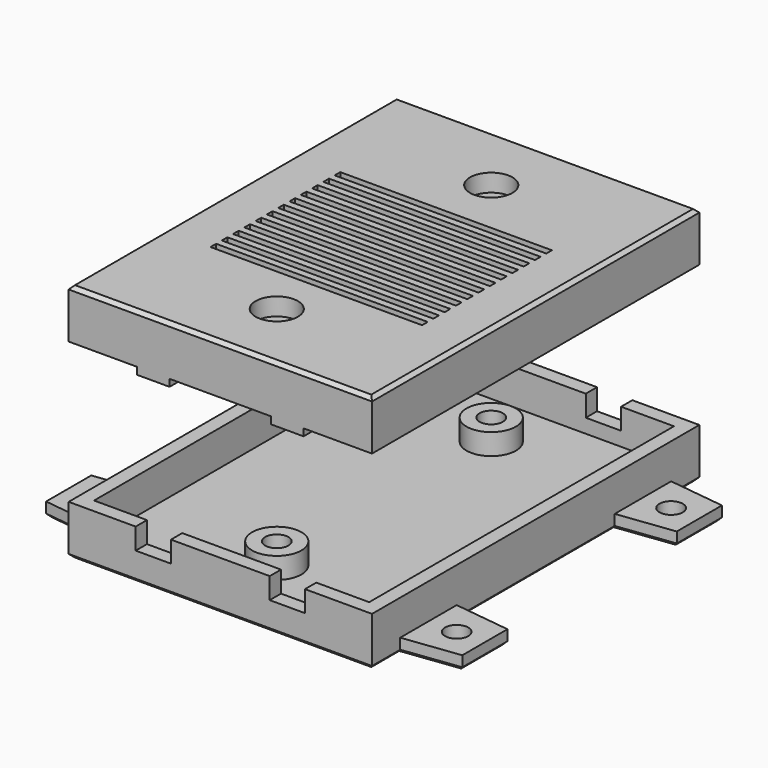
from build123d import *

# Parameters (mm, degrees)
F0_W       = 43
F0_H       = 58
F0_W_2     = 39
F0_H_2     = 54
F0_W_3     = 35
F0_H_3     = 50
F0_R       = 3.5
F1_DEPTH   = 2
F2_DEPTH   = 5
F3_DEPTH   = 3
F5_D       = 3.3
F6_W       = 5
F6_H       = 2
F7_DEPTH   = 3
F9_R       = 3.5
F9_W       = 14
F9_H       = 2
F9_W_2     = 5
F10_DEPTH  = 2
F11_DEPTH  = 5
F12_W      = 4.6
F12_H      = 2
F13_DEPTH  = 1
F14_D      = 3.3
F15_R      = 3
F15_R_2    = 1.65
F16_DEPTH  = 2.5
F17_R      = 1.65
F18_DEPTH  = 2.5
F19_W      = 30
F19_H      = 1
F20_DEPTH  = 2
F21_R      = 1.65
F22_DEPTH  = 2
F23_SIZE   = 0.5
F23_2_SIZE = 0.5
F24_SIZE   = 0.5


with BuildPart() as f1:
    # F0 (on Top) → F1 (new body)
    with BuildSketch(Plane.XY):
        with Locations((0, -19)):
            Rectangle(F0_W, F0_H)
        with Locations((0, -19)):
            Rectangle(F0_W_2, F0_H_2, mode=Mode.SUBTRACT)
        with Locations((0, -19)):
            Rectangle(F0_W_2, F0_H_2)
        with Locations((0, -19)):
            Rectangle(F0_W_3, F0_H_3, mode=Mode.SUBTRACT)
        with Locations((0, -19)):
            Rectangle(F0_W_3, F0_H_3)
        with Locations((0, -38)):
            Circle(F0_R, mode=Mode.SUBTRACT)
        Circle(F0_R, mode=Mode.SUBTRACT)
        Circle(F0_R)
        with Locations((0, -38)):
            Circle(F0_R)
    extrude(amount=-F1_DEPTH)

    # F0 (on Top) → F2 (join)
    with BuildSketch(Plane.XY):
        with Locations((0, -19)):
            Rectangle(F0_W, F0_H)
        with Locations((0, -19)):
            Rectangle(F0_W_2, F0_H_2, mode=Mode.SUBTRACT)
    extrude(amount=F2_DEPTH)

    # F0 (on Top) → F3 (join)
    with BuildSketch(Plane.XY):
        Circle(F0_R)
        with Locations((0, -38)):
            Circle(F0_R)
    extrude(amount=F3_DEPTH)

    # F5 (through all)
    with Locations(Plane.XY.offset(3)):
        with Locations((0, -38), (0, 0)):
            Hole(F5_D / 2)

    # F6 (on face) → F7 (cut)
    with BuildSketch(Plane.XY.offset(5)):
        with Locations((9.5, -47)):
            Rectangle(F6_W, F6_H)
        with Locations((-9.5, -47)):
            Rectangle(F6_W, F6_H)
        with Locations((-9.5, 9)):
            Rectangle(F6_W, F6_H)
        with Locations((9.5, 9)):
            Rectangle(F6_W, F6_H)
    extrude(amount=-F7_DEPTH, mode=Mode.SUBTRACT)

    # F17 (on face) → F18 (cut)
    with BuildSketch(Plane(origin=(0, 0, -2), x_dir=(1, 0, 0), z_dir=(0, 0, -1))):
        Polygon((-1.5, 35.4019237886), (1.5, 35.4019237886), (3, 38), (1.5, 40.5980762114), (-1.5, 40.5980762114), (-3, 38), align=None)
        with Locations((0, 38)):
            Circle(F17_R, mode=Mode.SUBTRACT)
        Polygon((-1.5, -2.5980762114), (1.5, -2.5980762114), (3, 0), (1.5, 2.5980762114), (-1.5, 2.5980762114), (-3, 0), align=None)
        Circle(F17_R, mode=Mode.SUBTRACT)
    extrude(amount=-F18_DEPTH, mode=Mode.SUBTRACT)

    # F21 (on face) → F22 (join)
    with BuildSketch(Plane(origin=(0, 0, -2), x_dir=(1, 0, 0), z_dir=(0, 0, -1))):
        Polygon((-29.5, 34), (-21.5, 33), (-21.5, 43), (-29.5, 42), align=None)
        with Locations((-25.5, 38)):
            Circle(F21_R, mode=Mode.SUBTRACT)
        Polygon((-21.5, -5), (-21.5, 5), (-29.5, 4), (-29.5, -4), align=None)
        with Locations((-25.5, 0)):
            Circle(F21_R, mode=Mode.SUBTRACT)
        Polygon((29.5, 42), (21.5, 43), (21.5, 33), (29.5, 34), align=None)
        with Locations((25.5, 38)):
            Circle(F21_R, mode=Mode.SUBTRACT)
        Polygon((21.5, 5), (21.5, -5), (29.5, -4), (29.5, 4), align=None)
        with Locations((25.5, 0)):
            Circle(F21_R, mode=Mode.SUBTRACT)
    extrude(amount=-F22_DEPTH)

    # F23
    f23_edges = [f1.edges().sort_by_distance(p)[0] for p in [
        (21.5, -19, -2),
        (25.5, -33.5, -2),
        (29.5, -38, -2),
        (25.5, -42.5, -2),
        (21.5, -45.5, -2),
        (0, -48, -2),
        (-21.5, -45.5, -2),
        (-25.5, -42.5, -2),
        (-29.5, -38, -2),
        (-25.5, -33.5, -2),
        (-21.5, -19, -2),
        (-25.5, -4.5, -2),
        (-29.5, 0, -2),
        (-25.5, 4.5, -2),
        (-21.5, 7.5, -2),
        (0, 10, -2),
        (21.5, 7.5, -2),
        (25.5, 4.5, -2),
        (29.5, 0, -2),
        (25.5, -4.5, -2),
    ]]
    chamfer(f23_edges, length=F23_SIZE)


with BuildPart() as f10:
    # F9 (on offset) → F10 (new body)
    with BuildSketch(Plane.XY.offset(30)):
        Polygon((-7, 8), (-12, 8), (-19.5, 8), (-19.5, -46), (-12, -46), (-7, -46), (7, -46), (12, -46), (19.5, -46), (19.5, 8), (12, 8), (7, 8), align=None)
        with Locations((0, -38)):
            Circle(F9_R, mode=Mode.SUBTRACT)
        Circle(F9_R, mode=Mode.SUBTRACT)
        with Locations((0, -38)):
            Circle(F9_R)
        Circle(F9_R)
        with Locations((0, -47)):
            Rectangle(F9_W, F9_H)
        with Locations((-9.5, -47)):
            Rectangle(F9_W_2, F9_H)
        Polygon((-12, 10), (-21.5, 10), (-21.5, -48), (-12, -48), (-12, -46), (-19.5, -46), (-19.5, 8), (-12, 8), align=None)
        with Locations((9.5, -47)):
            Rectangle(F9_W_2, F9_H)
        Polygon((21.5, 10), (12, 10), (12, 8), (19.5, 8), (19.5, -46), (12, -46), (12, -48), (21.5, -48), align=None)
        with Locations((9.5, 9)):
            Rectangle(F9_W_2, F9_H)
        with Locations((0, 9)):
            Rectangle(F9_W, F9_H)
        with Locations((-9.5, 9)):
            Rectangle(F9_W_2, F9_H)
    extrude(amount=F10_DEPTH)

    # F9 (on offset) → F11 (join)
    with BuildSketch(Plane.XY.offset(30)):
        Polygon((21.5, 10), (12, 10), (12, 8), (19.5, 8), (19.5, -46), (12, -46), (12, -48), (21.5, -48), align=None)
        with Locations((9.5, -47)):
            Rectangle(F9_W_2, F9_H)
        with Locations((0, -47)):
            Rectangle(F9_W, F9_H)
        with Locations((-9.5, -47)):
            Rectangle(F9_W_2, F9_H)
        Polygon((-12, 10), (-21.5, 10), (-21.5, -48), (-12, -48), (-12, -46), (-19.5, -46), (-19.5, 8), (-12, 8), align=None)
        with Locations((-9.5, 9)):
            Rectangle(F9_W_2, F9_H)
        with Locations((0, 9)):
            Rectangle(F9_W, F9_H)
        with Locations((9.5, 9)):
            Rectangle(F9_W_2, F9_H)
        Circle(F9_R)
        with Locations((0, -38)):
            Circle(F9_R)
    extrude(amount=-F11_DEPTH)

    # F12 (on face) → F13 (join)
    with BuildSketch(Plane(origin=(0, 0, 25), x_dir=(1, 0, 0), z_dir=(0, 0, -1))):
        with Locations((-9.5, 47)):
            Rectangle(F12_W, F12_H)
        with Locations((9.5, 47)):
            Rectangle(F12_W, F12_H)
        with Locations((-9.5, -9)):
            Rectangle(F12_W, F12_H)
        with Locations((9.5, -9)):
            Rectangle(F12_W, F12_H)
    extrude(amount=F13_DEPTH)

    # F14 (through all)
    with Locations(Plane(origin=(0, 0, 25), x_dir=(1, 0, 0), z_dir=(0, 0, -1))):
        with Locations((0, 38), (0, 0)):
            Hole(F14_D / 2)

    # F15 (on face) → F16 (cut)
    with BuildSketch(Plane.XY.offset(32)):
        with Locations((0, -38)):
            Circle(F15_R)
        with Locations((0, -38)):
            Circle(F15_R_2, mode=Mode.SUBTRACT)
        Circle(F15_R)
        Circle(F15_R_2, mode=Mode.SUBTRACT)
    extrude(amount=-F16_DEPTH, mode=Mode.SUBTRACT)

    # F19 (on face) → F20 (cut, through all)
    with BuildSketch(Plane.XY.offset(32)):
        with Locations((0, -8.5)):
            Rectangle(F19_W, F19_H)
        with Locations((0, -10.5)):
            Rectangle(F19_W, F19_H)
        with Locations((0, -12.5)):
            Rectangle(F19_W, F19_H)
        with Locations((0, -14.5)):
            Rectangle(F19_W, F19_H)
        with Locations((0, -16.5)):
            Rectangle(F19_W, F19_H)
        with Locations((0, -18.5)):
            Rectangle(F19_W, F19_H)
        with Locations((0, -20.5)):
            Rectangle(F19_W, F19_H)
        with Locations((0, -22.5)):
            Rectangle(F19_W, F19_H)
        with Locations((0, -24.5)):
            Rectangle(F19_W, F19_H)
        with Locations((0, -26.5)):
            Rectangle(F19_W, F19_H)
        with Locations((0, -28.5)):
            Rectangle(F19_W, F19_H)
        with Locations((0, -30.5)):
            Rectangle(F19_W, F19_H)
    extrude(amount=-F20_DEPTH, mode=Mode.SUBTRACT)

    # F23#2
    f23_2_edges = [f10.edges().sort_by_distance(p)[0] for p in [
        (21.5, -19, 32),
    ]]
    chamfer(f23_2_edges, length=F23_2_SIZE)

    # F24
    f24_edges = [f10.edges().sort_by_distance(p)[0] for p in [
        (-0.25, -48, 32),
        (-21.5, -19, 32),
        (-0.25, 10, 32),
    ]]
    chamfer(f24_edges, length=F24_SIZE)


solid = Compound([f1.part, f10.part])
